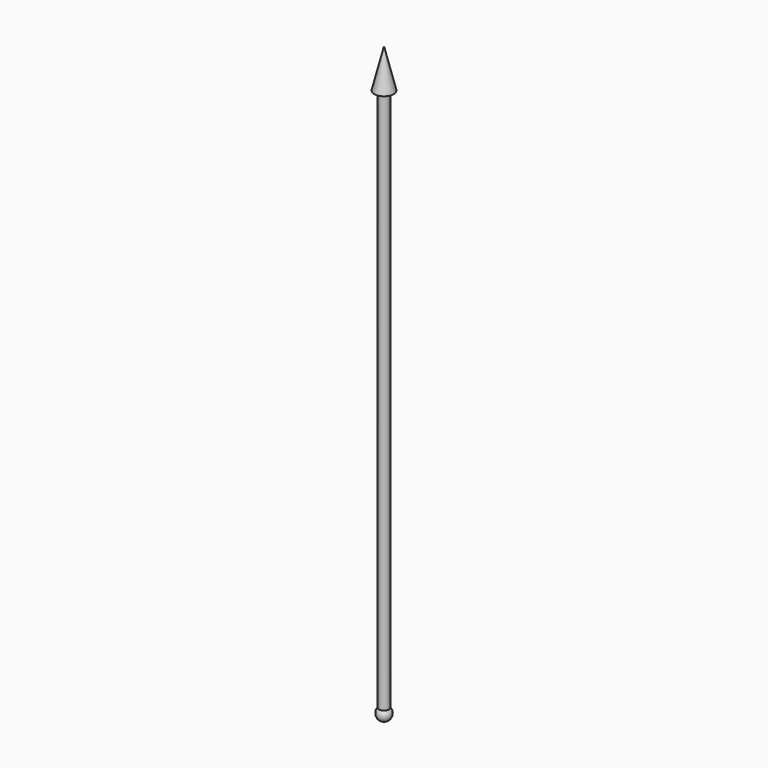
from build123d import *

# Parameters (mm, degrees)
CYLINDER001_R             = 25
CYLINDER001_DEPTH         = 2800
FUSION001_PITCH_ANGLE     = -90
FUSION001_PLACEMENT_ANGLE = 22.5


with BuildPart() as sphere001:
    # Sphere001 → Sphere001 (revolve)
    with BuildSketch(Plane.XZ):
        with BuildLine():
            ThreePointArc((0, -35), (35, 0), (0, 35))
            Line((0, 35), (0, -35))
        make_face()
    revolve(axis=Axis((0, 0, 0), (0, 0, 1)))


with BuildPart() as cone001:
    # Cone001 → Cone001 (revolve)
    with BuildSketch(Plane(origin=(2800, 0, 0), x_dir=(0, 0, -1), z_dir=(0, -1, 0))):
        Polygon((0, 0), (50, 0), (0, 200), align=None)
    revolve(axis=Axis((2800, 0, 0), (1, 0, 0)))


with BuildPart() as h1:
    # Cylinder001 → Cylinder001 (new body)
    with BuildSketch(Plane(origin=(0, 0, 0), x_dir=(0, 0, -1), z_dir=(1, 0, 0))):
        Circle(CYLINDER001_R)
    extrude(amount=CYLINDER001_DEPTH)

    # Fusion001: union Sphere001, Cone001
    add(sphere001.part)
    add(cone001.part)


with BuildPart() as h1_1:
    # Fusion001 pitch: moved
    add(h1.part.rotate(Axis((0, 0, 0), (0, 1, 0)), FUSION001_PITCH_ANGLE))


with BuildPart() as h1_2:
    # Fusion001 placement: moved
    add(h1_1.part.moved(Location((3603.130177, 1492.465386, 0))).rotate(Axis((3603.130177, 1492.465386, 0), (0, 0, 1)), FUSION001_PLACEMENT_ANGLE))


solid = h1_2.part
